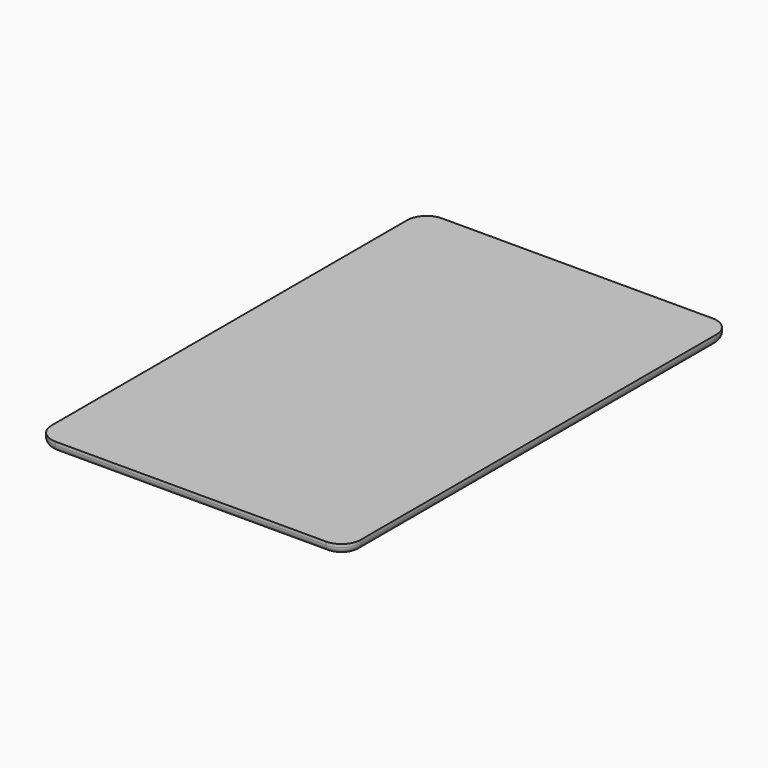
from build123d import *

# Parameters (mm, degrees)
SKETCH_W    = 48
SKETCH_H    = 75
PAD_DEPTH   = 1.5
FILLET006_R = 3
FILLET007_R = 3
FILLET008_R = 3
FILLET009_R = 1


with BuildPart() as part:
    # Sketch → Pad (new body)
    with BuildSketch(Plane.XY):
        with Locations((-5, 0)):
            Rectangle(SKETCH_W, SKETCH_H)
    extrude(amount=PAD_DEPTH)

    # Fillet006
    fillet006_edges = [part.edges().sort_by_distance(p)[0] for p in [
        (-29, -37.5, 0.75),
    ]]
    fillet(fillet006_edges, radius=FILLET006_R)

    # Fillet007
    fillet007_edges = [part.edges().sort_by_distance(p)[0] for p in [
        (19, -37.5, 0.75),
        (19, 37.5, 0.75),
    ]]
    fillet(fillet007_edges, radius=FILLET007_R)

    # Fillet008
    fillet008_edges = [part.edges().sort_by_distance(p)[0] for p in [
        (-29, 37.5, 0.75),
    ]]
    fillet(fillet008_edges, radius=FILLET008_R)

    # Fillet009
    fillet009_edges = [part.edges().sort_by_distance(p)[0] for p in [
        (19, 0, 0),
        (18.12132, -36.62132, 0),
        (-5, -37.5, 0),
        (-28.12132, -36.62132, 0),
        (-29, 0, 0),
        (-28.12132, 36.62132, 0),
        (-5, 37.5, 0),
        (18.12132, 36.62132, 0),
    ]]
    fillet(fillet009_edges, radius=FILLET009_R)


solid = part.part
